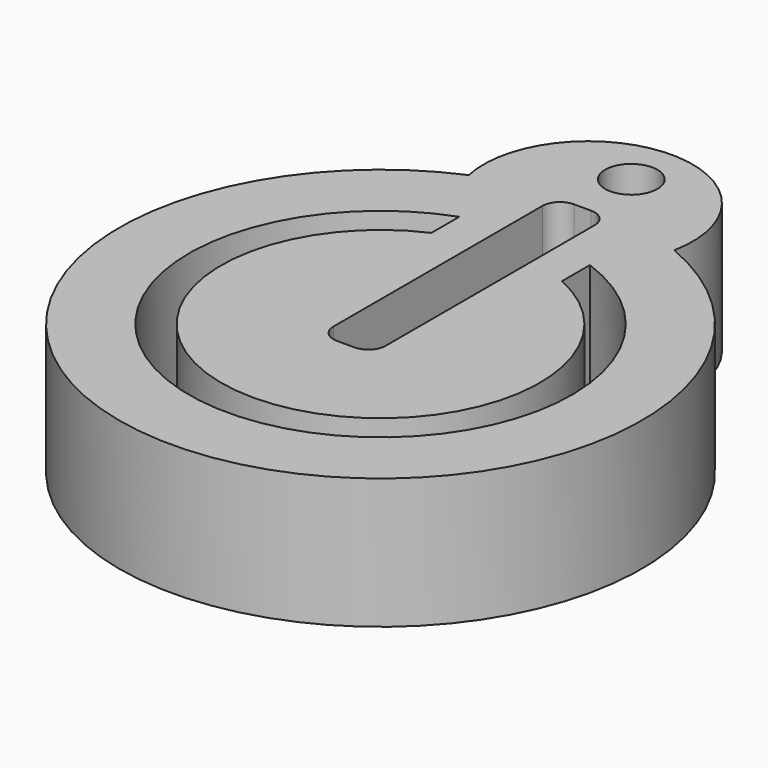
from build123d import *

# Parameters (mm, degrees)
SKETCH_R     = 3
PAD_DEPTH    = 15
POCKET_DEPTH = 15.001


with BuildPart() as part:
    # Sketch → Pad (new body)
    with BuildSketch(Plane.XY):
        with BuildLine():
            ThreePointArc((-11.899095, 27.539273), (0.154021, -29.999605), (11.615696, 27.66))
            ThreePointArc((11.615696, 27.66), (-0.21563, 41.999446), (-11.899095, 27.539273))
        make_face()
        with Locations((0, 35.999605)):
            Circle(SKETCH_R, mode=Mode.SUBTRACT)
    extrude(amount=PAD_DEPTH)

    # Sketch001 (on Face5 of Pad) → Pocket (cut, through all)
    with BuildSketch(Plane.XY.offset(15)):
        with BuildLine():
            ThreePointArc((-7.5, 20.682118), (0, -22), (7.5, 20.682118))
            Line((7.5, 20.682118), (7.5, 16.682118))
            ThreePointArc((-7.5, 16.682118), (0, -18.290518), (7.5, 16.682118))
            Line((-7.5, 20.682118), (-7.5, 16.682118))
        make_face()
        with BuildLine():
            Line((-1, 29), (1, 29))
            ThreePointArc((3, 27), (2.414214, 28.414214), (1, 29))
            Line((3, 27), (3, -3))
            ThreePointArc((1, -5), (2.414214, -4.414214), (3, -3))
            Line((1, -5), (-1, -5))
            ThreePointArc((-3, -3), (-2.414214, -4.414214), (-1, -5))
            Line((-3, -3), (-3, 27))
            ThreePointArc((-1, 29), (-2.414214, 28.414214), (-3, 27))
        make_face()
    extrude(amount=-POCKET_DEPTH, mode=Mode.SUBTRACT)


solid = part.part
